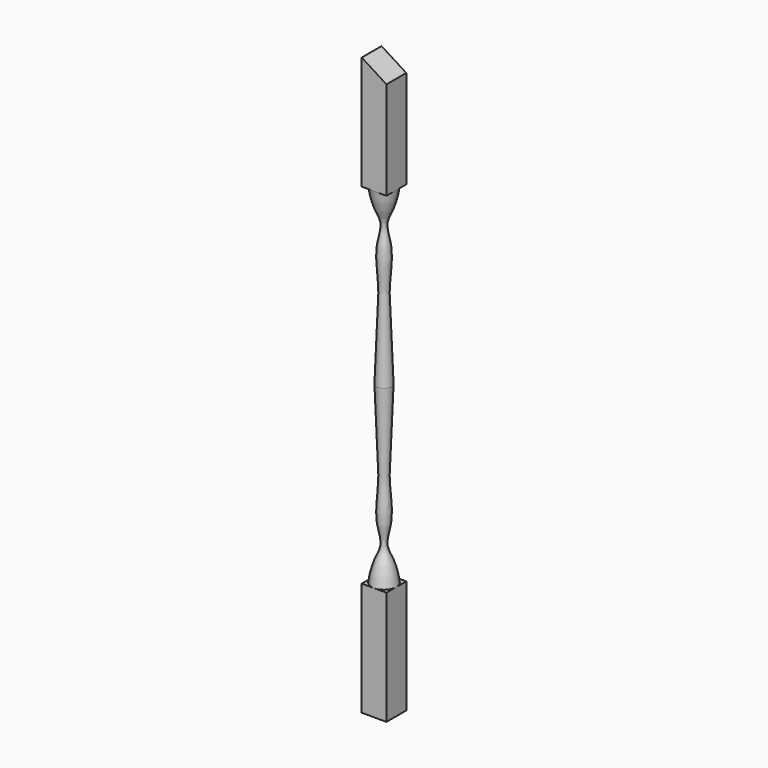
from build123d import *

# Parameters (mm, degrees)
F0_W          = 38.1
F0_H          = 38.1
F1_DEPTH      = 444.5
F5_DEPTH      = 19.0510001
F5_DEPTH_BACK = 19.0510001


with BuildPart() as f1:
    # F0 (on Top) → F1 (new body, symmetric)
    with BuildSketch(Plane.XY):
        Rectangle(F0_W, F0_H)
    extrude(amount=F1_DEPTH, both=True)

    # F2 (on Front) → F3 (revolve, cut)
    with BuildSketch(Plane.XZ):
        with BuildLine():
            add(Edge.make_bspline(
                [(11.5527668968, 0), (10.046800866, 28.4893312995), (9.1715674295, 80.9977363485), (5.0395663967, 129.2134805839), (12.9611159905, 184.4131507626), (-2.0989746226, 223.9534673168), (15.4149563286, 238.300591961), (19.05, 269.2452967167)],
                knots=[0, 0, 0, 0, 0.2471585757, 0.4397166911, 0.6422654444, 0.8019346241, 1, 1, 1, 1], degree=3))
            add(Edge.make_bspline(
                [(11.5527668968, 0), (10.046800866, -28.4893312995), (9.1715674295, -80.9977363485), (5.0395663967, -129.2134805839), (12.9611159905, -184.4131507626), (-2.0989746226, -223.9534673168), (15.4149563286, -238.300591961), (19.05, -269.2452967167)],
                knots=[0, 0, 0, 0, 0.2471585757, 0.4397166911, 0.6422654444, 0.8019346241, 1, 1, 1, 1], degree=3))
            Line((19.05, -269.2452967167), (67.6923958421, -269.2452967167))
            Line((67.6923958421, -269.2452967167), (67.6923958421, 269.2452967167))
            Line((67.6923958421, 269.2452967167), (19.05, 269.2452967167))
        make_face()
    revolve(axis=Axis((0, 0, 0), (0, 0, -1)), mode=Mode.SUBTRACT)

    # F4 (on Front) → F5 (cut, two sides)
    with BuildSketch(Plane.XZ) as f5_sk:
        Polygon((19.05, 444.5), (-19.05, 444.5), (19.05, 420.4699862058), align=None)
    extrude(amount=-F5_DEPTH, mode=Mode.SUBTRACT)
    extrude(f5_sk.sketch, amount=F5_DEPTH_BACK, mode=Mode.SUBTRACT)


solid = f1.part
